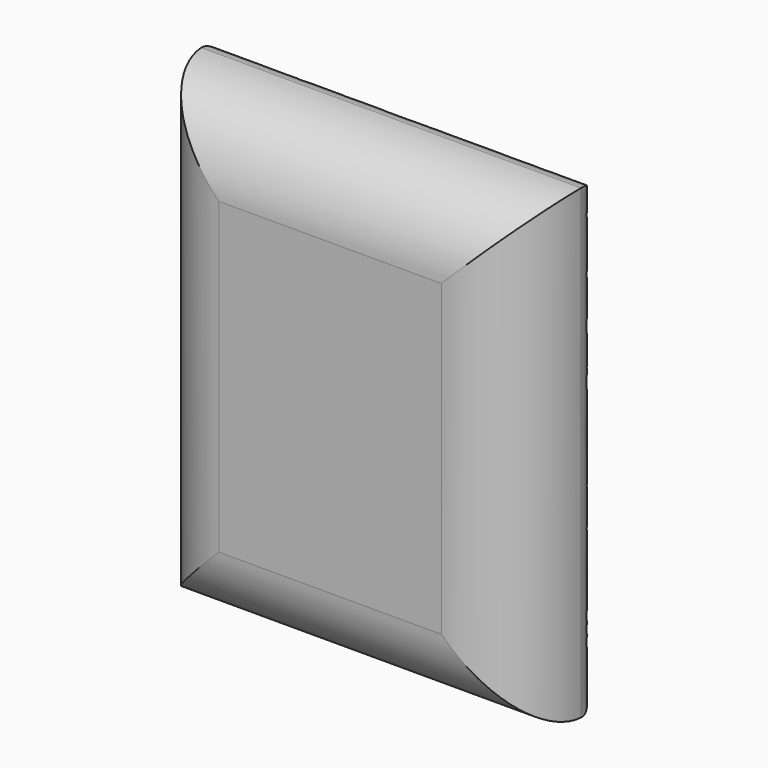
from build123d import *

# Parameters (mm, degrees)
F0_W     = 100.584
F0_H     = 123.444006
F1_DEPTH = 25.4
F2_R     = 20.849148
F3_R     = 5.08


with BuildPart() as f1:
    # F0 (on Front) → F1 (new body)
    with BuildSketch(Plane.XZ):
        with Locations((-2.4384, 0)):
            Rectangle(F0_W, F0_H)
    extrude(amount=F1_DEPTH)

    # F2
    f2_edges = [f1.edges().sort_by_distance(p)[0] for p in [
        (47.8536, -25.4, 0),
        (-2.4384, -25.4, 61.722003),
        (-52.7304, -25.4, 0),
        (-2.4384, -25.4, -61.722003),
    ]]
    fillet(f2_edges, radius=F2_R)

    # F3
    f3_edges = [f1.edges().sort_by_distance(p)[0] for p in [
        (47.8536, 0, 0),
        (-2.4384, 0, 61.722003),
        (-52.7304, 0, 0),
        (-2.4384, 0, -61.722003),
        (27.004452, -25.4, 0),
        (-2.4384, -25.4, -40.872855),
        (-2.4384, -25.4, 40.872855),
        (-31.881252, -25.4, 0),
    ]]
    fillet(f3_edges, radius=F3_R)


solid = f1.part
